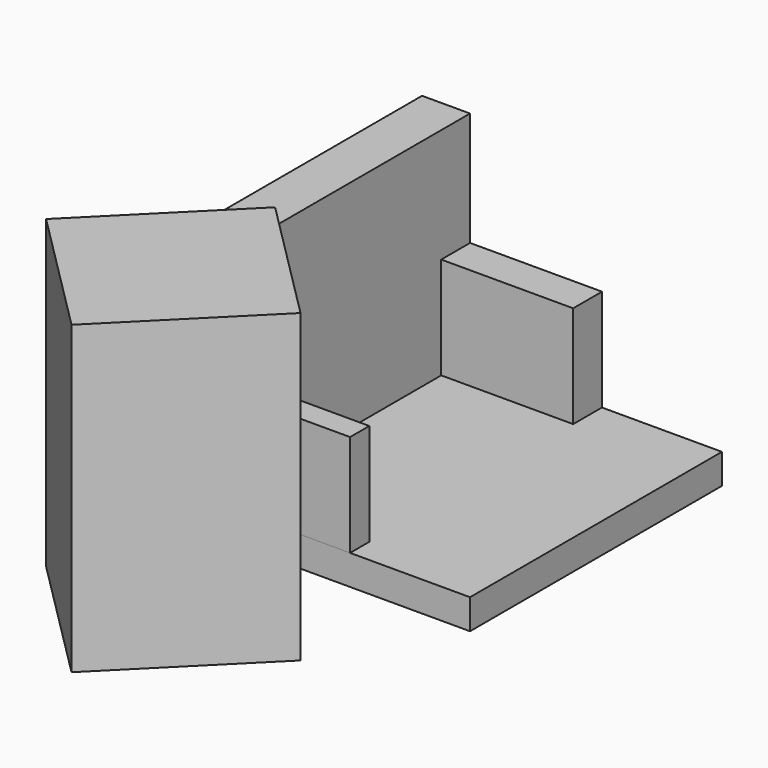
from build123d import *

# Parameters (mm, degrees)
F0_W      = 8
F0_H      = 49
F1_DEPTH  = 41
F3_W      = 30
F3_H      = 4.01
F4_DEPTH  = 22
F6_W      = 30
F6_H      = 6.01
F7_DEPTH  = 22
F9_W      = 50
F9_H      = 52.5
F10_DEPTH = 5
F12_W     = 30
F12_H     = 30
F13_DEPTH = 51
F16_ANGLE = 225


with BuildPart() as f1:
    # F0 (on Top) → F1 (new body)
    with BuildSketch(Plane.XY):
        with Locations((4, 24.5)):
            Rectangle(F0_W, F0_H)
    extrude(amount=F1_DEPTH)


with BuildPart() as f1_1:
    # F2: moved
    add(f1.part.moved(Location((0, -1.5, 0))))


with BuildPart() as f4:
    # F3 (on Top) → F4 (new body)
    with BuildSketch(Plane.XY):
        with Locations((15, 2.005)):
            Rectangle(F3_W, F3_H)
    extrude(amount=F4_DEPTH)


with BuildPart() as f4_1:
    # F5: moved
    add(f4.part.moved(Location((0, -5, 0))))


with BuildPart() as f7:
    # F6 (on Top) → F7 (new body)
    with BuildSketch(Plane.XY):
        with Locations((15, 3.005)):
            Rectangle(F6_W, F6_H)
    extrude(amount=F7_DEPTH)


with BuildPart() as f7_1:
    # F8: moved
    add(f7.part.moved(Location((0, 41.5, 0))))


with BuildPart() as f10:
    # F9 (on Top) → F10 (new body)
    with BuildSketch(Plane.XY):
        with Locations((25, 26.25)):
            Rectangle(F9_W, F9_H)
    extrude(amount=F10_DEPTH)


with BuildPart() as f10_1:
    # F11: moved
    add(f10.part.moved(Location((0, -5, 0))))


with BuildPart() as f13:
    # F12 (on Top) → F13 (new body)
    with BuildSketch(Plane.XY):
        with Locations((15, 15)):
            Rectangle(F12_W, F12_H)
    extrude(amount=F13_DEPTH)


with BuildPart() as f13_1:
    # F14: moved
    add(f13.part.moved(Location((-15, 0, -1))))


with BuildPart() as f13_2:
    # F16: moved
    add(f13_1.part.rotate(Axis((15, 0, 24.5), (0, 0, -1)), F16_ANGLE))


with BuildPart() as f13_3:
    # F17: moved
    add(f13_2.part.moved(Location((0.5, -2.5, 0))))


solid = Compound([f1_1.part, f4_1.part, f7_1.part, f10_1.part, f13_3.part])
